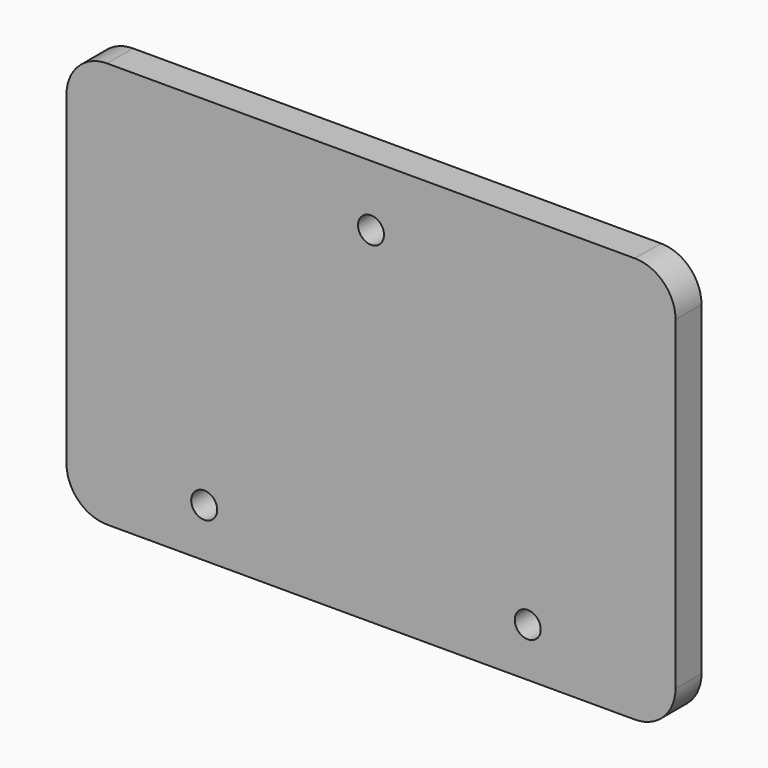
from build123d import *

# Parameters (mm, degrees)
F0_R     = 1.6
F1_DEPTH = 4
F2_R     = 5


with BuildPart() as f1:
    # F0 (on Front) → F1 (new body)
    with BuildSketch(Plane.XZ):
        Polygon((0, -5), (0, 0), (0, 40), (0, 45), (-75, 45), (-75, 40), (-75, 0), (-75, -5), align=None)
        with Locations((-58.039524, 1)):
            Circle(F0_R, mode=Mode.SUBTRACT)
        with Locations((-18.195726, 1)):
            Circle(F0_R, mode=Mode.SUBTRACT)
        with Locations((-37.5, 37.5)):
            Circle(F0_R, mode=Mode.SUBTRACT)
    extrude(amount=F1_DEPTH)

    # F2
    f2_edges = [f1.edges().sort_by_distance(p)[0] for p in [
        (-75, -2, 45),
        (0, -2, 45),
        (0, -2, -5),
        (-75, -2, -5),
    ]]
    fillet(f2_edges, radius=F2_R)


solid = f1.part
